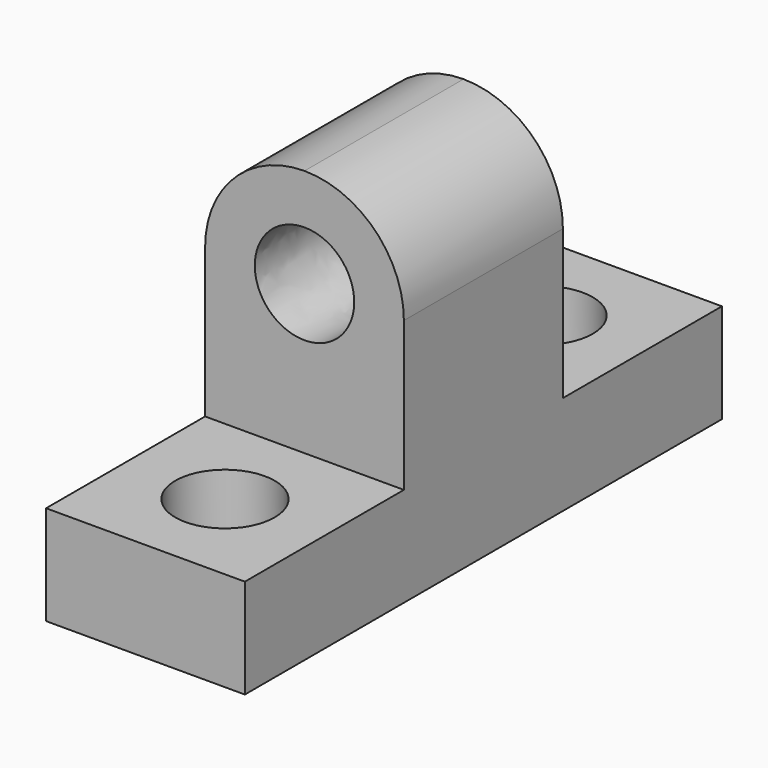
from build123d import *

# Parameters (mm, degrees)
F0_W      = 25.4
F0_H      = 76.2
F1_DEPTH  = 44.45
F2_W      = 25.4
F2_H      = 31.75
F3_DEPTH  = 25.4
F5_DEPTH  = 25.4
F7_DEPTH  = 25.4
F8_R      = 6.35
F9_DEPTH  = 25.4
F10_R     = 6.35
F11_DEPTH = 25.4


with BuildPart() as f1:
    # F0 (on Top) → F1 (new body)
    with BuildSketch(Plane.XY):
        with Locations((12.7, 38.1)):
            Rectangle(F0_W, F0_H)
    extrude(amount=F1_DEPTH)

    # F2 (on face) → F3 (cut)
    with BuildSketch(Plane(origin=(0, 0, 0), x_dir=(0, -1, 0), z_dir=(-1, 0, 0))):
        with Locations((-63.5, 28.575)):
            Rectangle(F2_W, F2_H)
        with Locations((-12.7, 28.575)):
            Rectangle(F2_W, F2_H)
    extrude(amount=-F3_DEPTH, mode=Mode.SUBTRACT)

    # F4 (on face) → F5 (cut)
    with BuildSketch(Plane.XZ.offset(-25.4)):
        with BuildLine():
            ThreePointArc((0, 31.75), (3.719744, 40.730256), (12.7, 44.45))
            Line((12.7, 44.45), (0, 44.45))
            Line((0, 44.45), (0, 31.75))
        make_face()
        with BuildLine():
            ThreePointArc((12.7, 44.45), (21.680256, 40.730257), (25.4, 31.750001))
            Line((25.4, 31.750001), (25.4, 44.45))
            Line((25.4, 44.45), (12.7, 44.45))
        make_face()
    extrude(amount=-F5_DEPTH, mode=Mode.SUBTRACT)

    # F6 (on face) → F7 (cut)
    with BuildSketch(Plane.XZ.offset(-25.4)):
        with BuildLine():
            add(Edge.make_bspline(
                [(19.05, 31.75), (19.05, 42.748523), (9.525, 37.249261), (0, 31.75), (9.525, 26.250739), (19.05, 20.751477), (19.05, 31.75)],
                knots=[0, 0, 0, 2.094395, 2.094395, 4.18879, 4.18879, 6.283185, 6.283185, 6.283185], degree=2, weights=[1, 0.5, 1, 0.5, 1, 0.5, 1]))
        make_face()
    extrude(amount=-F7_DEPTH, mode=Mode.SUBTRACT)

    # F8 (on face) → F9 (cut)
    with BuildSketch(Plane.XY.offset(12.7)):
        with Locations((12.7, 12.7)):
            Circle(F8_R)
    extrude(amount=-F9_DEPTH, mode=Mode.SUBTRACT)

    # F10 (on face) → F11 (cut)
    with BuildSketch(Plane.XY.offset(12.7)):
        with Locations((12.7, 63.5)):
            Circle(F10_R)
    extrude(amount=-F11_DEPTH, mode=Mode.SUBTRACT)


solid = f1.part
